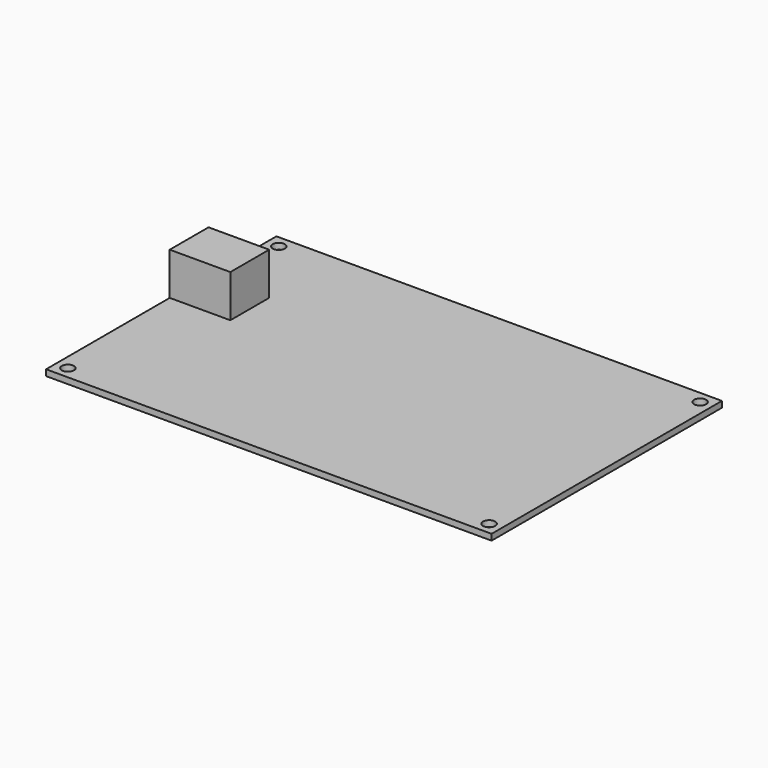
from build123d import *

# Parameters (mm, degrees)
F0_R     = 2
F0_W     = 20
F0_H     = 16
F1_DEPTH = 2
F2_DEPTH = 14


with BuildPart() as f1:
    # F0 (on Top) → F1 (new body)
    with BuildSketch(Plane.XY):
        Polygon((-73.5, -47.5), (73.5, -47.5), (73.5, 47.5), (-73.5, 47.5), (-73.5, 19.5), (-53.5, 19.5), (-53.5, 3.5), (-73.5, 3.5), align=None)
        with Locations((-69.5, -43.5)):
            Circle(F0_R, mode=Mode.SUBTRACT)
        with Locations((69.5, -43.5)):
            Circle(F0_R, mode=Mode.SUBTRACT)
        with Locations((-69.5, 43.5)):
            Circle(F0_R, mode=Mode.SUBTRACT)
        with Locations((69.5, 43.5)):
            Circle(F0_R, mode=Mode.SUBTRACT)
        with Locations((-63.5, 11.5)):
            Rectangle(F0_W, F0_H)
    extrude(amount=-F1_DEPTH)

    # F0 (on Top) → F2 (join)
    with BuildSketch(Plane.XY):
        with Locations((-63.5, 11.5)):
            Rectangle(F0_W, F0_H)
    extrude(amount=F2_DEPTH)


solid = f1.part
